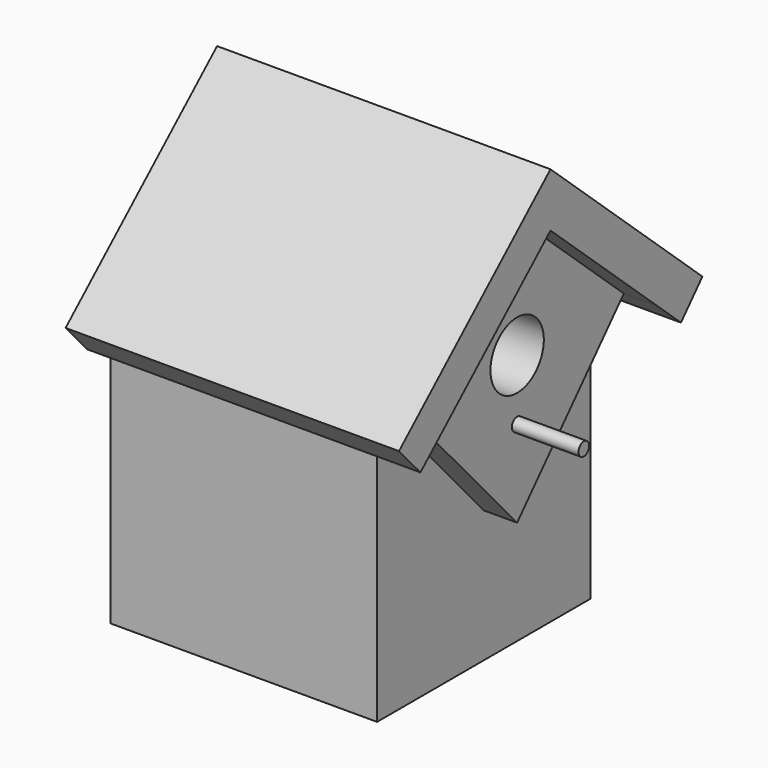
from build123d import *

# Parameters (mm, degrees)
F0_W      = 50.8
F0_H      = 50.8
F1_DEPTH  = 63.5
F3_DEPTH  = 12.7
F5_DEPTH  = 6.35
F6_DEPTH  = 50.8
F8_DEPTH  = 50.8
F10_DEPTH = 12.7


with BuildPart() as f1:
    # F0 (on Top) → F1 (new body)
    with BuildSketch(Plane.XY):
        Rectangle(F0_W, F0_H)
    extrude(amount=F1_DEPTH)

    # F2 (on face) → F3 (join)
    with BuildSketch(Plane.YZ.offset(25.4)):
        Polygon((-14.0506572952, 63.5), (0, 76.2), (0, 86.4714240594), (-36.0647195239, 53.8735228844), (-30.9551258806, 48.2205190104), (-25.4, 53.2416434461), (-25.4, 63.5), align=None)
        Polygon((-25.4, 53.2416434461), (-14.0506572952, 63.5), (-25.4, 63.5), align=None)
        Polygon((0, 86.4714240594), (0, 76.2), (14.0506572952, 63.5), (25.4, 63.5), (25.4, 53.2416434461), (31.0640838699, 48.1220349014), (36.1736775133, 53.7750387754), align=None)
        Polygon((25.4, 63.5), (14.0506572952, 63.5), (25.4, 53.2416434461), align=None)
    extrude(amount=F3_DEPTH)

    # F4 (on face) → F5 (join)
    with BuildSketch(Plane.YZ.offset(25.4)):
        Polygon((-14.0506572952, 63.5), (-25.4, 53.2416434461), (0, 25.1403288557), (25.4, 53.2416434461), (14.0506572952, 63.5), align=None)
        Polygon((0, 76.2), (-14.0506572952, 63.5), (14.0506572952, 63.5), align=None)
    extrude(amount=F5_DEPTH)

    # F6 (add): faces of the model
    f6_faces = [f1.faces().sort_by_distance(p)[0] for p in [
        (25.4, 0.0499832571, 67.5742219927),
        (25.4, 0.0499832571, 67.5742219927),
        (25.4, 0.0499832571, 67.5742219927),
    ]]
    extrude(f6_faces, amount=F6_DEPTH)

    # F7 (on face) → F8 (cut)
    with BuildSketch(Plane.YZ.offset(31.75)):
        with BuildLine():
            Line((-6.35, 53.2416434461), (6.35, 53.2416434461))
            ThreePointArc((6.35, 53.2416434461), (0, 59.5916434461), (-6.35, 53.2416434461))
        make_face()
        with BuildLine():
            ThreePointArc((-6.35, 53.2416434461), (0, 46.8916434461), (6.35, 53.2416434461))
            Line((6.35, 53.2416434461), (-6.35, 53.2416434461))
        make_face()
    extrude(amount=-F8_DEPTH, mode=Mode.SUBTRACT)

    # F9 (on face) → F10 (join)
    with BuildSketch(Plane.YZ.offset(31.75)):
        with BuildLine():
            ThreePointArc((1.27, 41.6503288557), (-0.8980256121, 42.5483544678), (0, 40.3803288557))
            ThreePointArc((0, 40.3803288557), (0.8980256121, 40.7523032436), (1.27, 41.6503288557))
        make_face()
    extrude(amount=F10_DEPTH)


solid = f1.part
